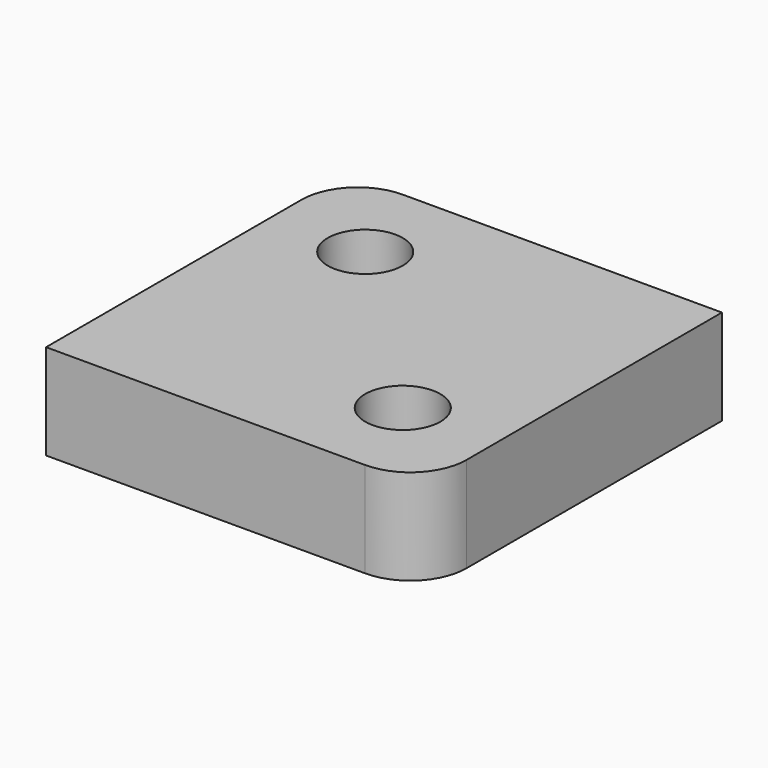
from build123d import *

# Parameters (mm, degrees)
F1_DEPTH = 25.4
F2_R     = 10
F3_DEPTH = 25.4


with BuildPart() as f1:
    # F0 (on Top) → F1 (new body)
    with BuildSketch(Plane.XY):
        with BuildLine():
            Line((50, 50), (-35, 50))
            ThreePointArc((-35, 50), (-45.606602, 45.606602), (-50, 35))
            Line((-50, 35), (-50, -50))
            Line((-50, -50), (35, -50))
            ThreePointArc((35, -50), (45.606602, -45.606602), (50, -35))
            Line((50, -35), (50, 50))
        make_face()
    extrude(amount=F1_DEPTH)

    # F2 (on face) → F3 (cut, through all)
    with BuildSketch(Plane.XY.offset(25.4)):
        with Locations((-25, 25)):
            Circle(F2_R)
        with Locations((25, -25)):
            Circle(F2_R)
    extrude(amount=-F3_DEPTH, mode=Mode.SUBTRACT)


solid = f1.part
